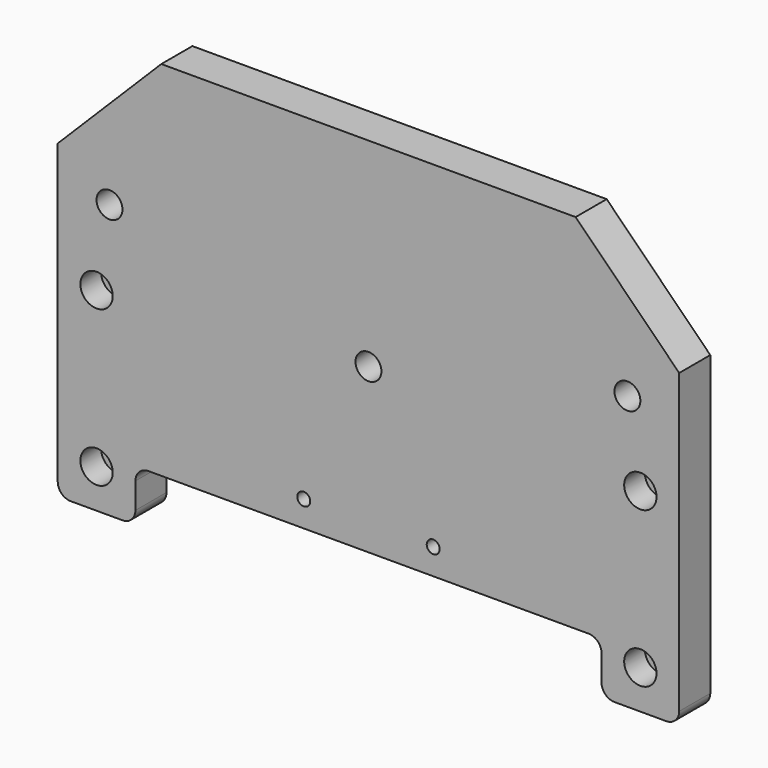
from build123d import *

# Parameters (mm, degrees)
F0_W            = 304.8
F0_H            = 203.2
F1_DEPTH        = 19.05
F2_W            = 228.6
F2_H            = 25.4
F3_DEPTH        = 19.051
F5_D            = 6.35
F6_R            = 6.35
F8_D            = 12.7
F9_R            = 6.35
F10_DEPTH       = 12.7
F12_D           = 9.525
F12_CBORE_D     = 15.875
F12_CBORE_DEPTH = 12.7
F13_SIZE        = 50.8


with BuildPart() as f1:
    # F0 (on Front) → F1 (new body)
    with BuildSketch(Plane.XZ):
        with Locations((152.4, 101.6)):
            Rectangle(F0_W, F0_H)
    extrude(amount=F1_DEPTH)

    # F2 (on face) → F3 (cut, through all)
    with BuildSketch(Plane.XZ.offset(19.05)):
        with Locations((152.4, 12.7)):
            Rectangle(F2_W, F2_H)
    extrude(amount=-F3_DEPTH, mode=Mode.SUBTRACT)

    # F5 (through all)
    with Locations(Plane.XZ.offset(19.05)):
        with Locations((120.65, 38.1), (184.15, 38.1)):
            Hole(F5_D / 2)

    # F6
    f6_edges = [f1.edges().sort_by_distance(p)[0] for p in [
        (38.1, -9.525, 25.4),
        (266.7, -9.525, 25.4),
        (0, -9.525, 0),
        (38.1, -9.525, 0),
        (266.7, -9.525, 0),
        (304.8, -9.525, 0),
    ]]
    fillet(f6_edges, radius=F6_R)

    # F8 (through all)
    with Locations(Plane.XZ.offset(19.05)):
        with Locations((152.4, 105.6132)):
            Hole(F8_D / 2)

    # F9 (on face) → F10 (cut)
    with BuildSketch(Plane.XZ.offset(19.05)):
        with Locations((279.4, 134.1882)):
            Circle(F9_R)
        with Locations((25.4, 134.1882)):
            Circle(F9_R)
    extrude(amount=-F10_DEPTH, mode=Mode.SUBTRACT)

    # F12 (through all)
    with Locations(Plane.XZ.offset(19.05)):
        with Locations((19.05, 95.25), (19.05, 19.05), (285.75, 19.05), (285.75, 95.25)):
            CounterBoreHole(F12_D / 2, F12_CBORE_D / 2, F12_CBORE_DEPTH)

    # F13
    f13_edges = [f1.edges().sort_by_distance(p)[0] for p in [
        (0, -9.525, 203.2),
        (304.8, -9.525, 203.2),
    ]]
    chamfer(f13_edges, length=F13_SIZE)


solid = f1.part
